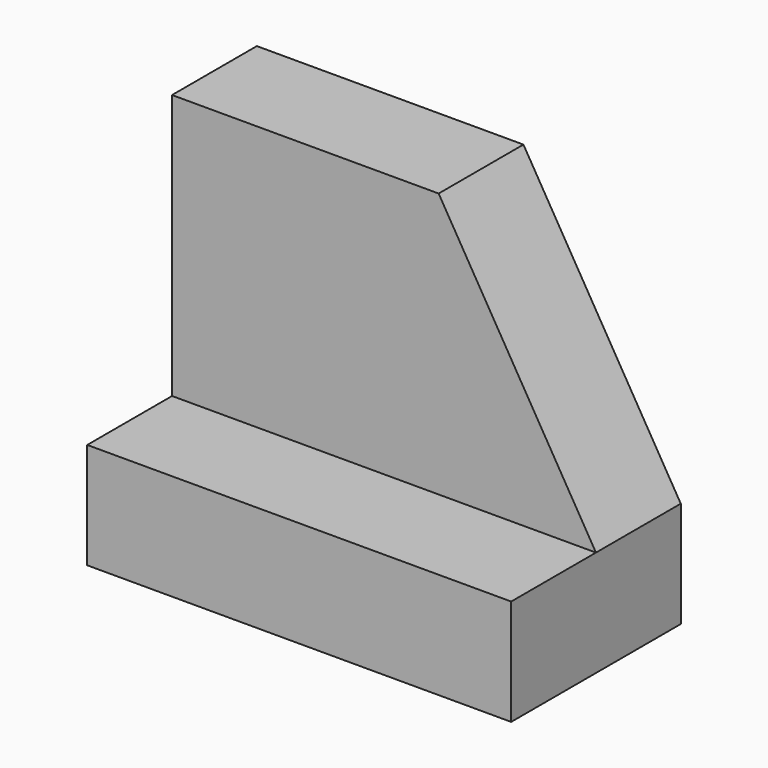
from build123d import *

# Parameters (mm, degrees)
F1_DEPTH = 12.7
F2_W     = 50.8
F2_H     = 12.7
F3_DEPTH = 12.7


with BuildPart() as f1:
    # F0 (on Front) → F1 (new body)
    with BuildSketch(Plane.XZ):
        Polygon((0, 44.45), (0, 0), (50.8, 0), (50.8, 12.7), (31.94969, 44.45), align=None)
    extrude(amount=F1_DEPTH)

    # F2 (on face) → F3 (join)
    with BuildSketch(Plane.XZ.offset(12.7)):
        with Locations((25.4, 6.35)):
            Rectangle(F2_W, F2_H)
    extrude(amount=F3_DEPTH)


solid = f1.part
